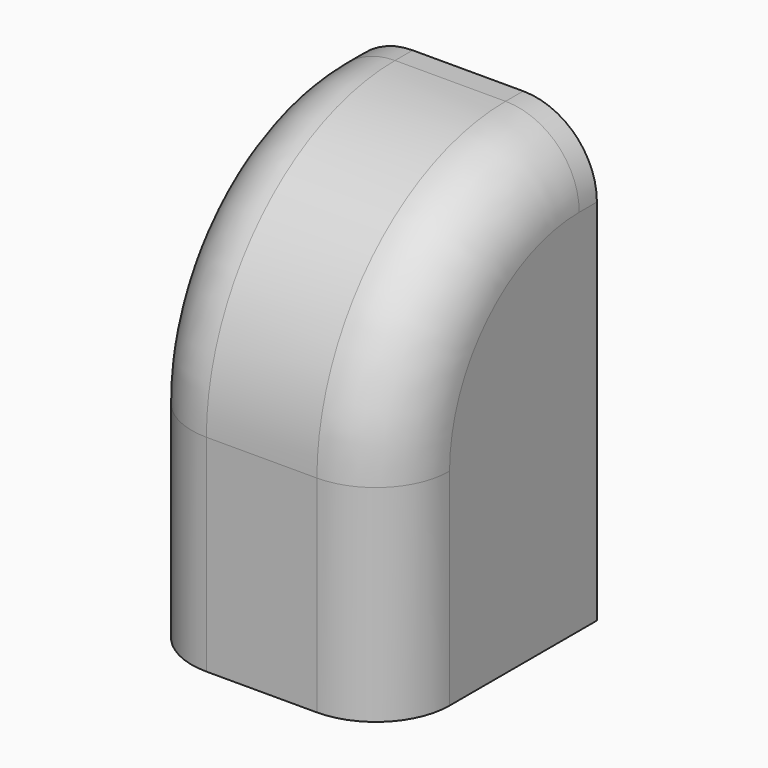
from build123d import *

# Parameters (mm, degrees)
F0_W      = 44.45
F0_H      = 44.45
F1_DEPTH  = 76.2
F2_R      = 40.64
F4_R      = 12.7
F6_T      = -2.54
F3_W      = 17.78
F3_H      = 3.81
F7_DEPTH  = 5.08
F8_D      = 3.81
F8_DEPTH  = 5.08
F8_TIP    = 1.1446394792
F9_D      = 3.81
F9_DEPTH  = 5.08
F9_TIP    = 1.1446394792
F10_D     = 31.75
F10_DEPTH = 5.08
F10_TIP   = 9.5386623271


with BuildPart() as f1:
    # F0 (on Top) → F1 (new body)
    with BuildSketch(Plane.XY):
        with Locations((2.945480904, 3.0331164956)):
            Rectangle(F0_W, F0_H)
    extrude(amount=F1_DEPTH)

    # F2
    f2_edges = [f1.edges().sort_by_distance(p)[0] for p in [
        (2.945481, -19.191884, 76.2),
    ]]
    fillet(f2_edges, radius=F2_R)

    # F4
    f4_edges = [f1.edges().sort_by_distance(p)[0] for p in [
        (25.170481, -7.288703, 64.29682),
        (-19.279519, -7.288703, 64.29682),
    ]]
    fillet(f4_edges, radius=F4_R)

    # F6 (hollow: no face is removed)
    offset(amount=F6_T, mode=Mode.SUBTRACT)

    # F3 (on face) → F7 (cut)
    with BuildSketch(Plane(origin=(0, 25.2581164956, 0), x_dir=(-1, 0, 0), z_dir=(0, 1, 0))):
        with Locations((-2.945480904, 71.755)):
            Rectangle(F3_W, F3_H)
    extrude(amount=-F7_DEPTH, mode=Mode.SUBTRACT)

    # F8
    with Locations(Plane(origin=(0, 0, 0), x_dir=(1, 0, 0), z_dir=(0, 0, -1))):
        with Locations((18.820480904, 12.8418835044), (-12.929519096, 12.8418835044), (18.820480904, -18.9081164956), (-12.929519096, -18.9081164956)):
            Hole(F8_D / 2, depth=F8_DEPTH)
            with Locations((0, 0, -(F8_DEPTH + F8_TIP / 2))):  # 118° drill point
                Cone(0, F8_D / 2, F8_TIP, mode=Mode.SUBTRACT)

    # F9
    with Locations(Plane(origin=(0, 25.2581164956, 0), x_dir=(-1, 0, 0), z_dir=(0, 1, 0))):
        with Locations((-18.820480904, 40.64), (12.929519096, 40.64)):
            Hole(F9_D / 2, depth=F9_DEPTH)
            with Locations((0, 0, -(F9_DEPTH + F9_TIP / 2))):  # 118° drill point
                Cone(0, F9_D / 2, F9_TIP, mode=Mode.SUBTRACT)

    # F10
    with Locations(Plane(origin=(0, 0, 0), x_dir=(1, 0, 0), z_dir=(0, 0, -1))):
        with Locations((2.945480904, -3.0331164956)):
            Hole(F10_D / 2, depth=F10_DEPTH)
            with Locations((0, 0, -(F10_DEPTH + F10_TIP / 2))):  # 118° drill point
                Cone(0, F10_D / 2, F10_TIP, mode=Mode.SUBTRACT)


solid = f1.part
